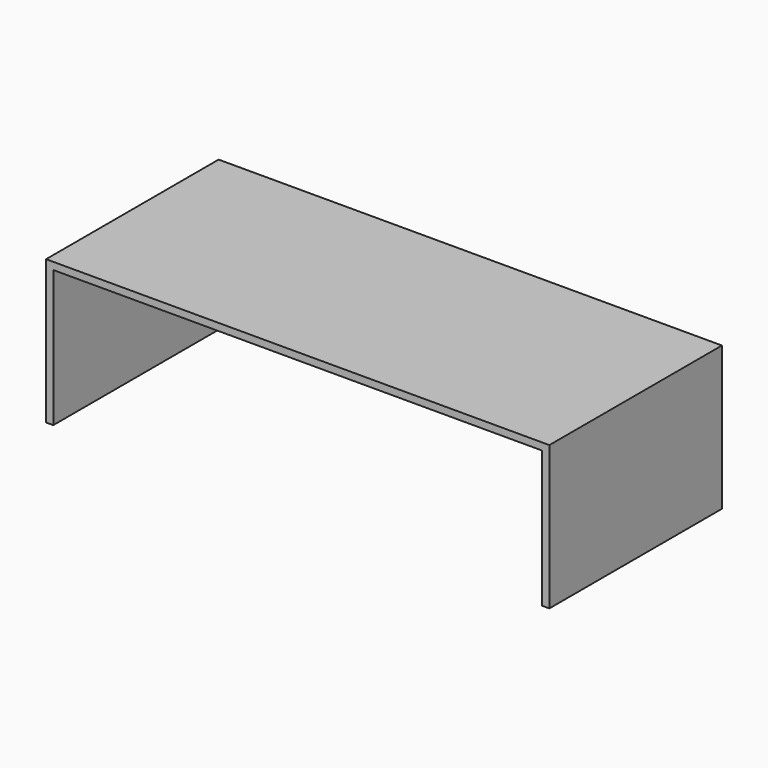
from build123d import *

# Parameters (mm, degrees)
F0_W     = 177.8
F0_H     = 76.2
F1_DEPTH = 50.8
F2_T     = -2.54


with BuildPart() as f1:
    # F0 (on Top) → F1 (new body)
    with BuildSketch(Plane.XY):
        Rectangle(F0_W, F0_H)
    extrude(amount=F1_DEPTH)

    # F2
    f2_openings = [f1.faces().sort_by_distance(p)[0] for p in [
        (0, -38.1, 25.4),
        (0, 38.1, 25.4),
        (0, 0, 0),
    ]]
    offset(amount=F2_T, openings=f2_openings)


solid = f1.part
